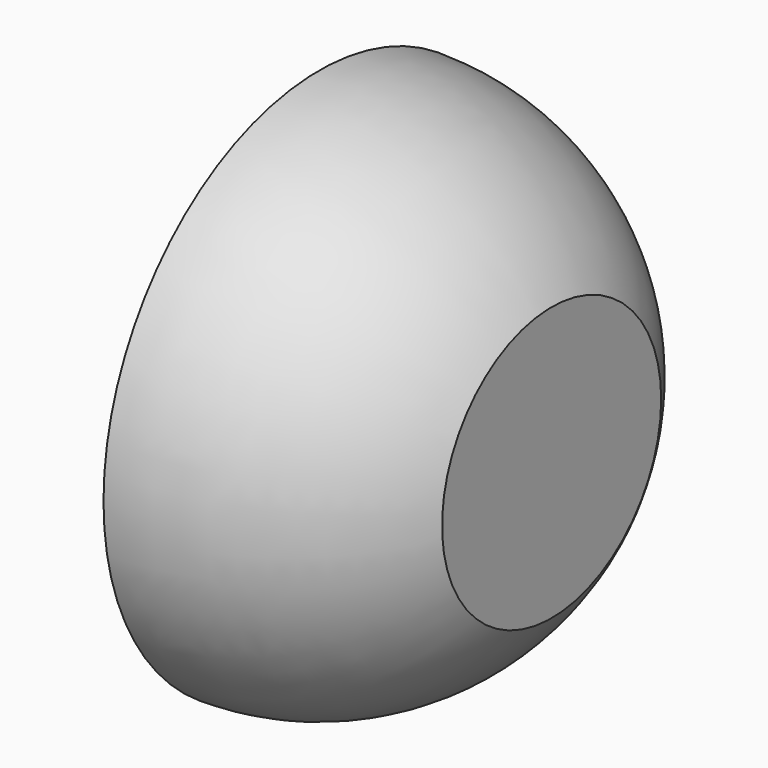
from build123d import *

# Parameters (mm, degrees)
F2_T = -2.54


with BuildPart() as f1:
    # F0 (on Top) → F1 (revolve)
    with BuildSketch(Plane.XY):
        with BuildLine():
            Line((1.054568, 22.251843), (1.054568, 0))
            Line((1.054568, 0), (20.224597, 0))
            Line((20.224597, 0), (20.224597, 11.298428))
            ThreePointArc((20.224597, 11.298428), (12.093899, 19.320395), (1.054568, 22.251843))
        make_face()
    revolve(axis=Axis((10.639583, 0, 0), (1, 0, 0)))

    # F2
    f2_openings = [f1.faces().sort_by_distance(p)[0] for p in [
        (1.054568, 0, 0),
    ]]
    offset(amount=F2_T, openings=f2_openings)


solid = f1.part
